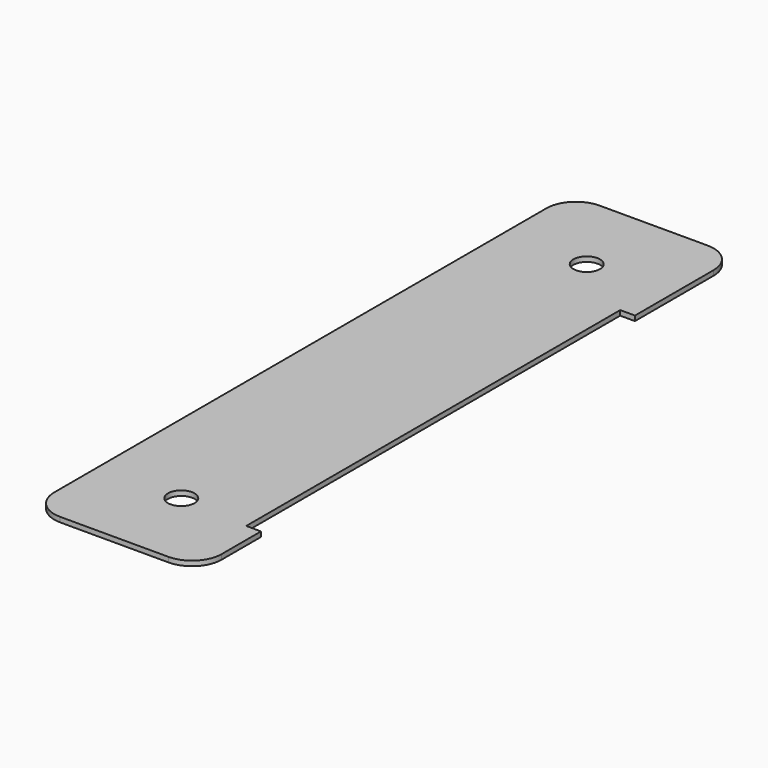
from build123d import *

# Parameters (mm, degrees)
F0_R     = 8.5725
F1_DEPTH = 3.175
F2_R     = 19.05


with BuildPart() as f1:
    # F0 (on Top) → F1 (new body)
    with BuildSketch(Plane.XY):
        Polygon((-22.126334, 214.595574), (-130.076334, 214.595574), (-130.076334, -220.379426), (-22.126334, -220.379426), (-22.126334, -169.579426), (-31.651334, -169.579426), (-31.651334, 132.045574), (-22.126334, 132.045574), align=None)
        with Locations((-76.101334, -166.404426)):
            Circle(F0_R, mode=Mode.SUBTRACT)
        with Locations((-76.101334, 160.620574)):
            Circle(F0_R, mode=Mode.SUBTRACT)
    extrude(amount=F1_DEPTH)

    # F2
    f2_edges = [f1.edges().sort_by_distance(p)[0] for p in [
        (-130.076334, -220.379426, 1.5875),
        (-22.126334, -220.379426, 1.5875),
        (-130.076334, 214.595574, 1.5875),
        (-22.126334, 214.595574, 1.5875),
    ]]
    fillet(f2_edges, radius=F2_R)


solid = f1.part
